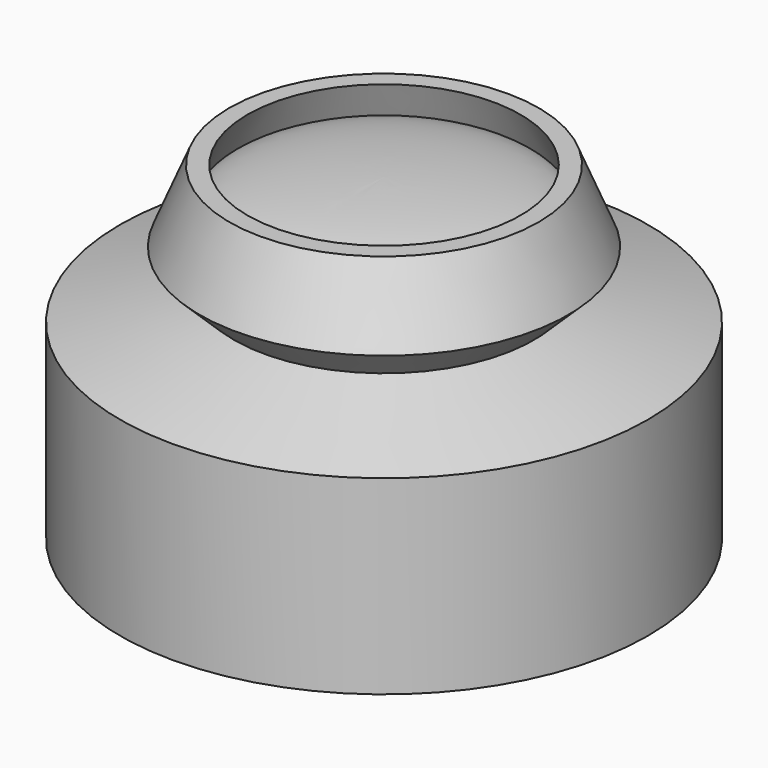
from build123d import *

# Parameters (mm, degrees)
F3_T     = -2
F4_R     = 30
F5_DEPTH = 3


with BuildPart() as f2:
    # F1 (on Front) → F2 (revolve)
    with BuildSketch(Plane.XZ):
        Polygon((-31.4929559827, 0), (0, 0), (0, 39.2067618668), (-18.4540133923, 39.2067618668), (-22.0025852323, 30.6241679937), (-17.8854335099, 26.6375336796), (-31.4929559827, 22.7017737925), align=None)
    revolve(axis=Axis((0, 0, 49.0382760763), (0, 0, 1)))

    # F3
    f3_openings = [f2.faces().sort_by_distance(p)[0] for p in [
        (0, 0, 39.206762),
    ]]
    offset(amount=F3_T, openings=f3_openings, kind=Kind.INTERSECTION)

    # F4 (on face) → F5 (cut)
    with BuildSketch(Plane(origin=(0, 0, 0), x_dir=(1, 0, 0), z_dir=(0, 0, -1))):
        Circle(F4_R)
    extrude(amount=-F5_DEPTH, mode=Mode.SUBTRACT)


with BuildPart() as f7:
    # F6 (on Right) → F7 (revolve)
    with BuildSketch(Plane.YZ):
        with BuildLine():
            Line((0, 31.0965048716), (0, 37.9197058633))
            add(Edge.make_bspline(
                [(0, 37.9197058633), (-17.8861320019, 37.9197058633), (-17.8861320019, 34.5081053674), (-17.8861320019, 31.0965048716), (0, 31.0965048716)],
                knots=[1.5707963268, 1.5707963268, 1.5707963268, 3.1415926536, 3.1415926536, 4.7123889804, 4.7123889804, 4.7123889804], degree=2, weights=[1, 0.7071067812, 1, 0.7071067812, 1]))
        make_face()
    revolve(axis=Axis((0, 0, 49.0382760763), (0, 0, 1)))


with BuildPart() as f7b:
    # F6 (on Right) → F7, piece 2 (revolve)
    with BuildSketch(Plane.YZ):
        with BuildLine():
            Line((0, 17.8938234626), (0, 22.8857783199))
            add(Edge.make_bspline(
                [(0, 22.8857783199), (-29.1951280087, 22.8857783199), (-29.1951280087, 20.3898008913), (-29.1951280087, 17.8938234626), (0, 17.8938234626)],
                knots=[1.5707963268, 1.5707963268, 1.5707963268, 3.1415926536, 3.1415926536, 4.7123889804, 4.7123889804, 4.7123889804], degree=2, weights=[1, 0.7071067812, 1, 0.7071067812, 1]))
        make_face()
    revolve(axis=Axis((0, 0, 49.0382760763), (0, 0, 1)))


with BuildPart() as f7c:
    # F6 (on Right) → F7, piece 3 (revolve)
    with BuildSketch(Plane.YZ):
        with BuildLine():
            Line((0, 2.2175601935), (0, 7.9879554668))
            add(Edge.make_bspline(
                [(0, 7.9879554668), (-29.2517468333, 7.9879554668), (-29.2517468333, 5.1027578302), (-29.2517468333, 2.2175601935), (0, 2.2175601935)],
                knots=[1.5707963268, 1.5707963268, 1.5707963268, 3.1415926536, 3.1415926536, 4.7123889804, 4.7123889804, 4.7123889804], degree=2, weights=[1, 0.7071067812, 1, 0.7071067812, 1]))
        make_face()
    revolve(axis=Axis((0, 0, 49.0382760763), (0, 0, 1)))


solid = Compound([f2.part, f7.part, f7b.part, f7c.part])
